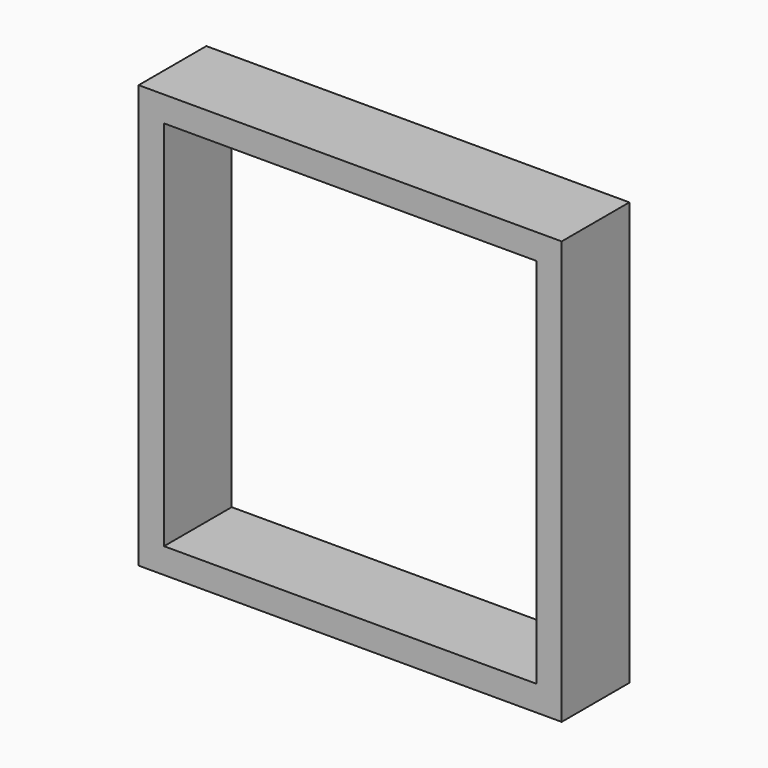
from build123d import *

# Parameters (mm, degrees)
F0_W          = 25.4
F0_H          = 25.4
F1_DEPTH      = 5.08
F2_W          = 22.352
F2_H          = 22.352
F3_DEPTH      = 25.4
F3_DEPTH_BACK = 25.4


with BuildPart() as f1:
    # F0 (on Front) → F1 (new body)
    with BuildSketch(Plane.XZ):
        with Locations((-13.602283, -12.769573)):
            Rectangle(F0_W, F0_H)
    extrude(amount=F1_DEPTH)

    # F2 (on face) → F3 (cut, two sides)
    with BuildSketch(Plane.XZ.offset(5.08)) as f3_sk:
        with Locations((-13.602283, -12.769573)):
            Rectangle(F2_W, F2_H)
    extrude(amount=-F3_DEPTH, mode=Mode.SUBTRACT)
    extrude(f3_sk.sketch, amount=-F3_DEPTH_BACK, mode=Mode.SUBTRACT)


solid = f1.part
